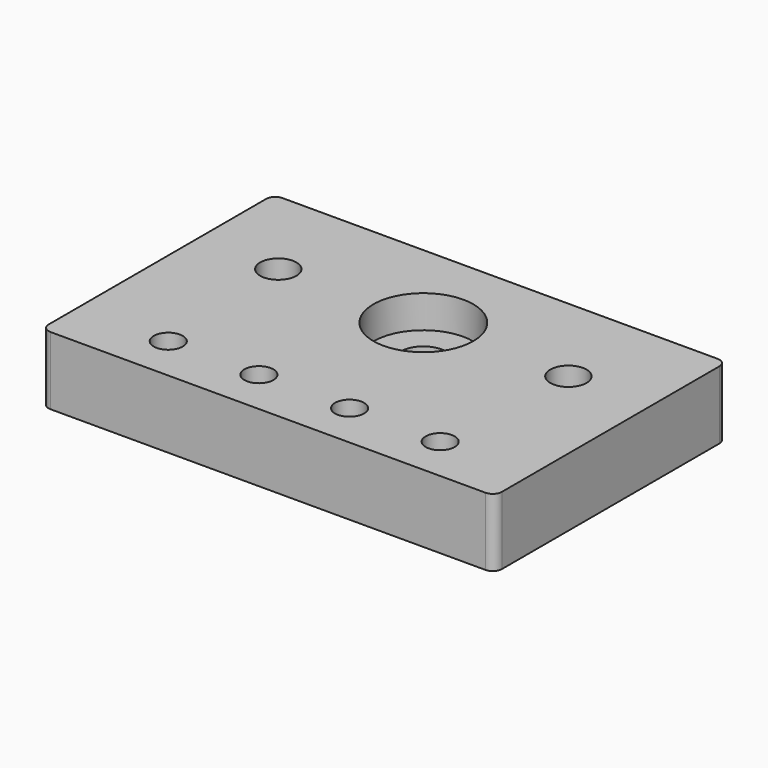
from build123d import *

# Parameters (mm, degrees)
SKETCH_W        = 100
SKETCH_H        = 64
SKETCH_R        = 5
SKETCH_R_2      = 3.2
SKETCH_R_3      = 4
PAD_DEPTH       = 15
SKETCH001_R     = 11.02
POCKET_DEPTH    = 7.2
SKETCH002_R     = 6
POCKET001_DEPTH = 7
SKETCH003_R     = 3.2
POCKET002_DEPTH = 15
FILLET_R        = 2


with BuildPart() as part:
    # Sketch → Pad (new body)
    with BuildSketch(Plane.XY):
        with Locations((50, 32)):
            Rectangle(SKETCH_W, SKETCH_H)
        with Locations((50, 42.85)):
            Circle(SKETCH_R, mode=Mode.SUBTRACT)
        with Locations((20, 10)):
            Circle(SKETCH_R_2, mode=Mode.SUBTRACT)
        with Locations((80, 10)):
            Circle(SKETCH_R_2, mode=Mode.SUBTRACT)
        with Locations((82, 42.85)):
            Circle(SKETCH_R_3, mode=Mode.SUBTRACT)
        with Locations((18, 42.85)):
            Circle(SKETCH_R_3, mode=Mode.SUBTRACT)
    extrude(amount=PAD_DEPTH)

    # Sketch001 (on Face11 of Pad) → Pocket (cut)
    with BuildSketch(Plane.XY.offset(15)):
        with Locations((50, 42.85)):
            Circle(SKETCH001_R)
    extrude(amount=-POCKET_DEPTH, mode=Mode.SUBTRACT)

    # Sketch002 (on Face4 of Pocket) → Pocket001 (cut)
    with BuildSketch(Plane(origin=(0, 0, 0), x_dir=(1, 0, 0), z_dir=(0, 0, -1))):
        with Locations((20, -10)):
            Circle(SKETCH002_R)
        with Locations((80, -10)):
            Circle(SKETCH002_R)
        with Locations((40, -10)):
            Circle(SKETCH002_R)
        with Locations((60, -10)):
            Circle(SKETCH002_R)
    extrude(amount=-POCKET001_DEPTH, mode=Mode.SUBTRACT)

    # Sketch003 (on Face5 of Pocket001) → Pocket002 (cut)
    with BuildSketch(Plane.XY.offset(15)):
        with Locations((40, 10)):
            Circle(SKETCH003_R)
        with Locations((60, 10)):
            Circle(SKETCH003_R)
    extrude(amount=-POCKET002_DEPTH, mode=Mode.SUBTRACT)

    # Fillet
    fillet_edges = [part.edges().sort_by_distance(p)[0] for p in [
        (0, 64, 7.5),
        (100, 64, 7.5),
        (0, 0, 7.5),
        (100, 0, 7.5),
    ]]
    fillet(fillet_edges, radius=FILLET_R)


solid = part.part
